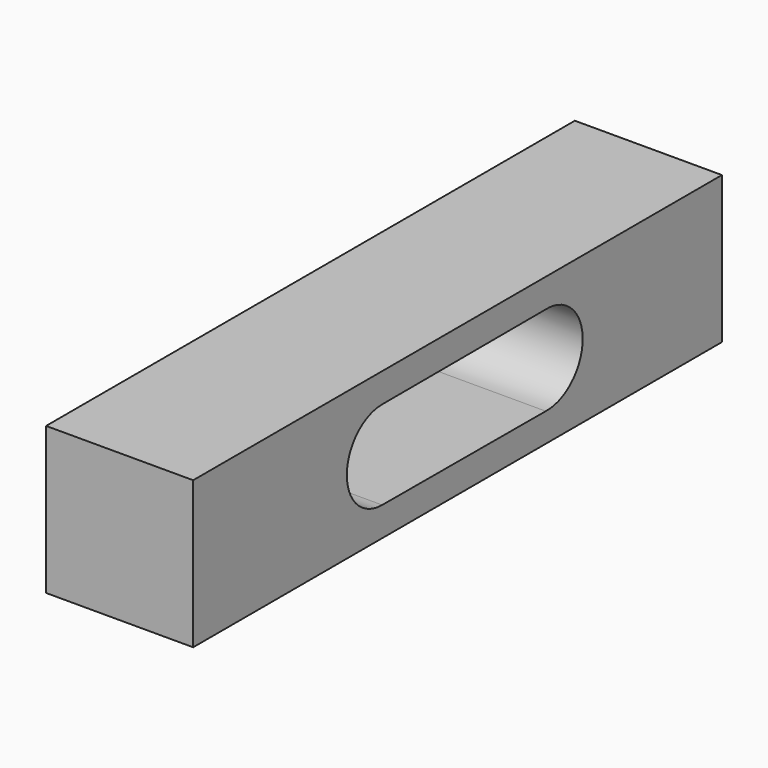
from build123d import *

# Parameters (mm, degrees)
F0_W     = 12.717748
F0_H     = 12.717748
F1_DEPTH = 28.575
F3_DEPTH = 12.717748


with BuildPart() as f1:
    # F0 (on Front) → F1 (new body, symmetric)
    with BuildSketch(Plane.XZ):
        Rectangle(F0_W, F0_H)
    extrude(amount=F1_DEPTH, both=True)

    # F2 (on face) → F3 (cut, through all)
    with BuildSketch(Plane(origin=(-6.358874, 0, 0), x_dir=(0, -1, 0), z_dir=(-1, 0, 0))):
        with BuildLine():
            ThreePointArc((-9.433768, 3.872642), (-6.829732, 2.666259), (-5.767928, 0))
            ThreePointArc((-5.767928, 0), (-6.865206, -2.703241), (-9.536167, -3.876908))
            Line((-9.536167, -3.876908), (8.144981, -3.830927))
            ThreePointArc((8.144981, -3.830927), (4.304078, -0.000436), (8.144109, 3.830929))
            Line((8.144109, 3.830929), (-9.433768, 3.872642))
        make_face()
        with BuildLine():
            ThreePointArc((11.965958, 0), (10.847114, 2.705668), (8.144109, 3.830929))
            ThreePointArc((8.144109, 3.830929), (4.304078, -0.000436), (8.144981, -3.830927))
            ThreePointArc((8.144981, -3.830927), (10.847422, -2.705359), (11.965958, 0))
        make_face()
        with BuildLine():
            ThreePointArc((-9.536167, -3.876908), (-6.865206, -2.703241), (-5.767928, 0))
            ThreePointArc((-5.767928, 0), (-6.829732, 2.666259), (-9.433768, 3.872642))
            ThreePointArc((-9.433768, 3.872642), (-13.524539, 0.051244), (-9.536167, -3.876908))
        make_face()
    extrude(amount=-F3_DEPTH, mode=Mode.SUBTRACT)


solid = f1.part
